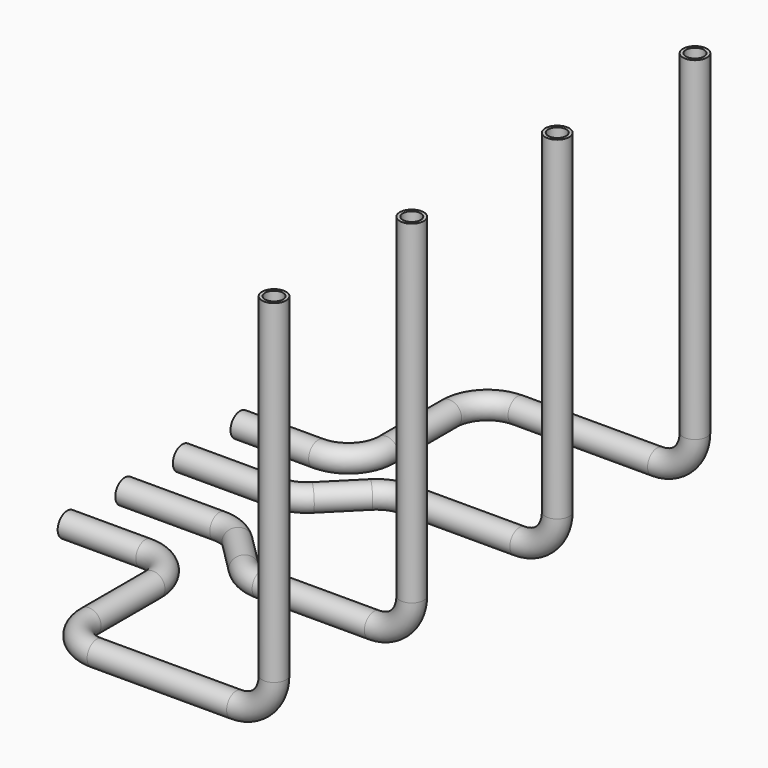
from build123d import *

# Parameters (mm, degrees)
F2_R    = 6.35
F2_R_2  = 4.7625
F6_R    = 6.35
F6_R_2  = 4.7625
F10_R   = 6.35
F10_R_2 = 4.7625
F16_R   = 6.35
F16_R_2 = 4.7625


with BuildPart() as f5:
    # F5: sweep along a path in F1, F4
    with BuildLine(Plane.XY) as f5_path:
        Line((0, 0), (50, 0))
        ThreePointArc((50, 0), (57.6536686473, 1.5224093498), (64.1421356237, 5.8578643763))
        Line((64.1421356237, 5.8578643763), (81.3114068712, 23.0271356237))
        ThreePointArc((81.3114068712, 23.0271356237), (87.7998738476, 27.3625906502), (95.4535424949, 28.885))
        Line((95.4535424949, 28.885), (140, 28.885))
    with BuildLine(Plane.XZ.offset(-28.885)) as f5_path_2:
        Line((140, 0), (155.166, 0))
        ThreePointArc((155.166, 0), (169.3081356237, 5.8578643763), (175.166, 20))
        Line((175.166, 20), (175.166, 196.656))
    # F2 (on Right) → F5 (sweep)
    with BuildSketch(Plane.YZ):
        Circle(F2_R)
        Circle(F2_R_2, mode=Mode.SUBTRACT)
    sweep(path=f5_path.line + f5_path_2.line)


with BuildPart() as f14:
    # F14: sweep along a path in F7, F9
    with BuildLine(Plane.XY) as f14_path:
        Line((0, 38.1), (41.3530091941, 38.1))
        ThreePointArc((41.3530091941, 38.1), (55.4951448179, 43.9578643763), (61.3530091941, 58.1))
        Line((61.3530091941, 58.1), (61.3530091941, 99.967))
        ThreePointArc((61.3530091941, 99.967), (67.2108735704, 114.1091356237), (81.3530091941, 119.967))
        Line((81.3530091941, 119.967), (155.166, 119.967))
    with BuildLine(Plane.XZ.offset(-119.967)) as f14_path_2:
        ThreePointArc((155.166, 0), (169.3081356237, 5.8578643763), (175.166, 20))
        Line((175.166, 20), (175.166, 196.656))
    # F6 (on Right) → F14 (sweep)
    with BuildSketch(Plane.YZ):
        with Locations((38.1, 0)):
            Circle(F6_R)
        with Locations((38.1, 0)):
            Circle(F6_R_2, mode=Mode.SUBTRACT)
    sweep(path=f14_path.line + f14_path_2.line)


with BuildPart() as f15:
    # F15: sweep along a path in F11, F13
    with BuildLine(Plane.XY) as f15_path:
        Line((0, -38.1), (50, -38.1))
        ThreePointArc((50, -38.1), (57.6536686473, -39.6224093498), (64.1421356237, -43.9578643763))
        Line((64.1421356237, -43.9578643763), (81.6484068712, -61.4641356237))
        ThreePointArc((81.6484068712, -61.4641356237), (88.1368738476, -65.7995906502), (95.7905424949, -67.322))
        Line((95.7905424949, -67.322), (155.166, -67.322))
    with BuildLine(Plane.XZ.offset(67.322)) as f15_path_2:
        ThreePointArc((155.166, 0), (169.3081356237, 5.8578643763), (175.166, 20))
        Line((175.166, 20), (175.166, 196.656))
    # F10 (on Right) → F15 (sweep)
    with BuildSketch(Plane.YZ):
        with Locations((-38.1, 0)):
            Circle(F10_R)
        with Locations((-38.1, 0)):
            Circle(F10_R_2, mode=Mode.SUBTRACT)
    sweep(path=f15_path.line + f15_path_2.line)


with BuildPart() as f19:
    # F19: sweep along a path in F17, F18
    with BuildLine(Plane.XY) as f19_path:
        Line((0, -76.2), (41.3530091941, -76.2))
        ThreePointArc((41.3530091941, -76.2), (55.4951448179, -82.0578643763), (61.3530091941, -96.2))
        Line((61.3530091941, -96.2), (61.3530091941, -138.404))
        ThreePointArc((61.3530091941, -138.404), (67.2108735704, -152.5461356237), (81.3530091941, -158.404))
        Line((81.3530091941, -158.404), (155.166, -158.404))
    with BuildLine(Plane.XZ.offset(158.404)) as f19_path_2:
        ThreePointArc((155.166, 0), (169.3081356237, 5.8578643763), (175.166, 20))
        Line((175.166, 20), (175.166, 196.656))
    # F16 (on Right) → F19 (sweep)
    with BuildSketch(Plane.YZ):
        with Locations((-76.2, 0)):
            Circle(F16_R)
        with Locations((-76.2, 0)):
            Circle(F16_R_2, mode=Mode.SUBTRACT)
    sweep(path=f19_path.line + f19_path_2.line)


solid = Compound([f5.part, f14.part, f15.part, f19.part])
